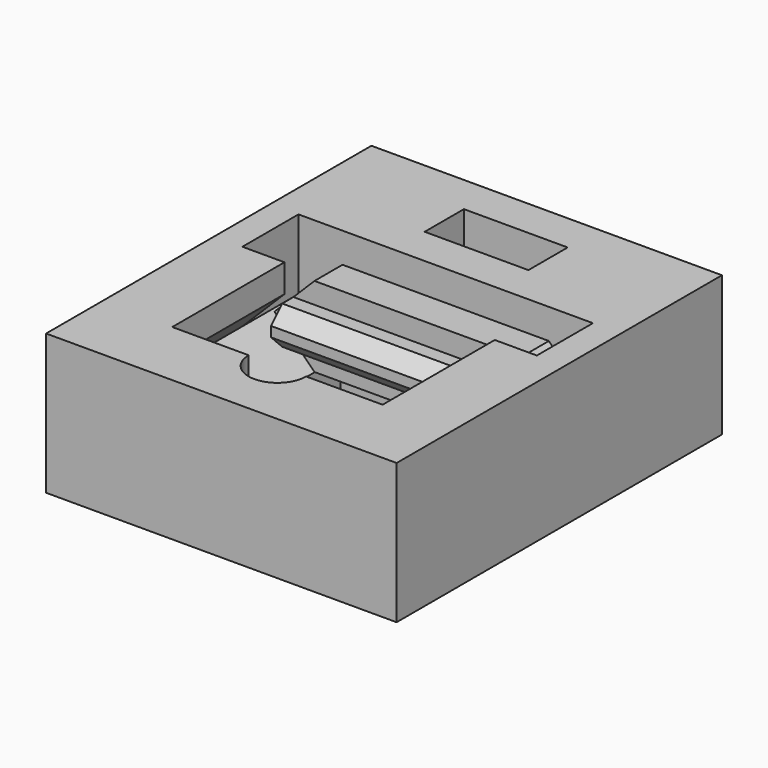
from build123d import *

# Parameters (mm, degrees)
F0_W          = 25
F0_H          = 25
F0_W_2        = 15
F0_H_2        = 15
F0_H_3        = 4
F1_DEPTH      = 10
F2_W          = 3
F2_H          = 5
F3_DEPTH      = 5
F5_DEPTH      = 10
F5_DEPTH_BACK = 5
F6_W          = 18
F6_H          = 3
F7_DEPTH      = 2
F8_SIZE       = 1
F10_DEPTH     = 25
F11_R         = 2
F12_DEPTH     = 9
F13_W         = 7.4
F13_H         = 3.5
F14_DEPTH     = 9
F16_DEPTH     = 2.5
F17_DEPTH     = 4.5
F18_SIZE      = 1
F19_DEPTH     = 0.5


with BuildPart() as f1:
    # F0 (on Top) → F1 (new body)
    with BuildSketch(Plane.XY):
        with Locations((-12.5, 12.5)):
            Rectangle(F0_W, F0_H)
        with Locations((-12.5, 12.5)):
            Rectangle(F0_W_2, F0_H_2, mode=Mode.SUBTRACT)
        with Locations((-12.5, 27)):
            Rectangle(F0_W, F0_H_3)
    extrude(amount=F1_DEPTH)

    # F2 (on face) → F3 (cut)
    with BuildSketch(Plane.XY.offset(10)):
        with Locations((-21.5, 17.5)):
            Rectangle(F2_W, F2_H)
        with Locations((-3.5, 17.5)):
            Rectangle(F2_W, F2_H)
    extrude(amount=-F3_DEPTH, mode=Mode.SUBTRACT)

    # F4 (on face) → F5 (cut, two sides)
    with BuildSketch(Plane(origin=(0, 15, 0), x_dir=(-1, 0, 0), z_dir=(0, 1, 0))) as f5_sk:
        Polygon((20, 2), (23, 5), (20, 5), align=None)
        Polygon((20, 5), (23, 5), (20, 8), align=None)
        Polygon((5, 5), (2, 5), (5, 2), align=None)
        Polygon((5, 8), (2, 5), (5, 5), align=None)
    extrude(amount=-F5_DEPTH, mode=Mode.SUBTRACT)
    extrude(f5_sk.sketch, amount=F5_DEPTH_BACK, mode=Mode.SUBTRACT)

    # F6 (on face) → F7 (cut)
    with BuildSketch(Plane(origin=(0, 5, 0), x_dir=(-1, 0, 0), z_dir=(0, 1, 0))):
        with Locations((12.5, 5)):
            Rectangle(F6_W, F6_H)
        with Locations((12.5, 5)):
            Rectangle(F6_W, F6_H)
    extrude(amount=-F7_DEPTH, mode=Mode.SUBTRACT)

    # F8
    f8_edges = [f1.edges().sort_by_distance(p)[0] for p in [
        (-12.5, 3, 3.5),
        (-12.5, 3, 6.5),
    ]]
    chamfer(f8_edges, length=F8_SIZE)

    # F9 (on face) → F10 (cut)
    with BuildSketch(Plane.XY.offset(10)):
        with BuildLine():
            ThreePointArc((-14.55, 5), (-12.5, 2.95), (-10.45, 5))
            Line((-10.45, 5), (-14.55, 5))
        make_face()
    extrude(amount=-F10_DEPTH, mode=Mode.SUBTRACT)

    # F11 (on face) → F12 (cut, through all)
    with BuildSketch(Plane(origin=(0, 29, 0), x_dir=(-1, 0, 0), z_dir=(0, 1, 0))):
        with Locations((12.5, 5)):
            Circle(F11_R)
    extrude(amount=-F12_DEPTH, mode=Mode.SUBTRACT)

    # F13 (on face) → F14 (cut, through all)
    with BuildSketch(Plane.XY.offset(10)):
        with Locations((-12.5, 24.5)):
            Rectangle(F13_W, F13_H)
    extrude(amount=-F14_DEPTH, mode=Mode.SUBTRACT)


with BuildPart() as f16:
    # F15 (on face) → F16 (new body)
    with BuildSketch(Plane.XZ.offset(-20)):
        with BuildLine():
            Line((-19.8585786438, 7.8585786438), (-21.3585786438, 6.3585786438))
            Line((-21.3585786438, 6.3585786438), (-13.967741145, 6.3585786438))
            ThreePointArc((-13.967741145, 6.3585786438), (-12.5, 7), (-11.032258855, 6.3585786438))
            Line((-11.032258855, 6.3585786438), (-3.6414213562, 6.3585786438))
            Line((-3.6414213562, 6.3585786438), (-5.1414213562, 7.8585786438))
            Line((-5.1414213562, 7.8585786438), (-19.8585786438, 7.8585786438))
        make_face()
        Polygon((-22.7171572875, 5), (-21.3585786438, 3.6414213562), (-21.3585786438, 6.3585786438), align=None)
        with BuildLine():
            Line((-21.3585786438, 6.3585786438), (-21.3585786438, 3.6414213562))
            Line((-21.3585786438, 3.6414213562), (-13.967741145, 3.6414213562))
            ThreePointArc((-13.967741145, 3.6414213562), (-14.5, 5), (-13.967741145, 6.3585786438))
            Line((-13.967741145, 6.3585786438), (-21.3585786438, 6.3585786438))
        make_face()
        with BuildLine():
            Line((-11.032258855, 3.6414213562), (-3.6414213562, 3.6414213562))
            Line((-3.6414213562, 3.6414213562), (-3.6414213562, 6.3585786438))
            Line((-3.6414213562, 6.3585786438), (-11.032258855, 6.3585786438))
            ThreePointArc((-11.032258855, 6.3585786438), (-10.6378128061, 5.7295607274), (-10.5, 5))
            ThreePointArc((-10.5, 5), (-10.6378128061, 4.2704392726), (-11.032258855, 3.6414213562))
        make_face()
        with BuildLine():
            Line((-21.3585786438, 3.6414213562), (-19.8585786438, 2.1414213562))
            Line((-19.8585786438, 2.1414213562), (-5.1414213562, 2.1414213562))
            Line((-5.1414213562, 2.1414213562), (-3.6414213562, 3.6414213562))
            Line((-3.6414213562, 3.6414213562), (-11.032258855, 3.6414213562))
            ThreePointArc((-11.032258855, 3.6414213562), (-12.5, 3), (-13.967741145, 3.6414213562))
            Line((-13.967741145, 3.6414213562), (-21.3585786438, 3.6414213562))
        make_face()
        Polygon((-3.6414213562, 6.3585786438), (-3.6414213562, 3.6414213562), (-2.2828427125, 5), align=None)
        with BuildLine():
            ThreePointArc((-13.967741145, 6.3585786438), (-14.5, 5), (-13.967741145, 3.6414213562))
            Line((-13.967741145, 3.6414213562), (-11.032258855, 3.6414213562))
            ThreePointArc((-11.032258855, 3.6414213562), (-10.6378128061, 4.2704392726), (-10.5, 5))
            ThreePointArc((-10.5, 5), (-10.6378128061, 5.7295607274), (-11.032258855, 6.3585786438))
            Line((-11.032258855, 6.3585786438), (-13.967741145, 6.3585786438))
        make_face()
        with BuildLine():
            Line((-11.032258855, 3.6414213562), (-13.967741145, 3.6414213562))
            ThreePointArc((-13.967741145, 3.6414213562), (-12.5, 3), (-11.032258855, 3.6414213562))
        make_face()
        with BuildLine():
            ThreePointArc((-11.032258855, 6.3585786438), (-12.5, 7), (-13.967741145, 6.3585786438))
            Line((-13.967741145, 6.3585786438), (-11.032258855, 6.3585786438))
        make_face()
    extrude(amount=F16_DEPTH)

    # F15 (on face) → F17 (join, through all)
    with BuildSketch(Plane.XZ.offset(-20)):
        with BuildLine():
            Line((-21.3585786438, 6.3585786438), (-21.3585786438, 3.6414213562))
            Line((-21.3585786438, 3.6414213562), (-13.967741145, 3.6414213562))
            ThreePointArc((-13.967741145, 3.6414213562), (-14.5, 5), (-13.967741145, 6.3585786438))
            Line((-13.967741145, 6.3585786438), (-21.3585786438, 6.3585786438))
        make_face()
        with BuildLine():
            Line((-11.032258855, 3.6414213562), (-3.6414213562, 3.6414213562))
            Line((-3.6414213562, 3.6414213562), (-3.6414213562, 6.3585786438))
            Line((-3.6414213562, 6.3585786438), (-11.032258855, 6.3585786438))
            ThreePointArc((-11.032258855, 6.3585786438), (-10.6378128061, 5.7295607274), (-10.5, 5))
            ThreePointArc((-10.5, 5), (-10.6378128061, 4.2704392726), (-11.032258855, 3.6414213562))
        make_face()
        with BuildLine():
            ThreePointArc((-13.967741145, 6.3585786438), (-14.5, 5), (-13.967741145, 3.6414213562))
            Line((-13.967741145, 3.6414213562), (-11.032258855, 3.6414213562))
            ThreePointArc((-11.032258855, 3.6414213562), (-10.6378128061, 4.2704392726), (-10.5, 5))
            ThreePointArc((-10.5, 5), (-10.6378128061, 5.7295607274), (-11.032258855, 6.3585786438))
            Line((-11.032258855, 6.3585786438), (-13.967741145, 6.3585786438))
        make_face()
    extrude(amount=F17_DEPTH)

    # F18
    f18_edges = [f16.edges().sort_by_distance(p)[0] for p in [
        (-12.5, 15.5, 3.641421),
        (-12.5, 15.5, 6.358579),
    ]]
    chamfer(f18_edges, length=F18_SIZE)

    # F15 (on face) → F19 (cut)
    with BuildSketch(Plane.XZ.offset(-20)):
        with BuildLine():
            ThreePointArc((-13.967741145, 6.3585786438), (-14.5, 5), (-13.967741145, 3.6414213562))
            Line((-13.967741145, 3.6414213562), (-11.032258855, 3.6414213562))
            ThreePointArc((-11.032258855, 3.6414213562), (-10.6378128061, 4.2704392726), (-10.5, 5))
            ThreePointArc((-10.5, 5), (-10.6378128061, 5.7295607274), (-11.032258855, 6.3585786438))
            Line((-11.032258855, 6.3585786438), (-13.967741145, 6.3585786438))
        make_face()
        with BuildLine():
            Line((-11.032258855, 3.6414213562), (-13.967741145, 3.6414213562))
            ThreePointArc((-13.967741145, 3.6414213562), (-12.5, 3), (-11.032258855, 3.6414213562))
        make_face()
        with BuildLine():
            ThreePointArc((-11.032258855, 6.3585786438), (-12.5, 7), (-13.967741145, 6.3585786438))
            Line((-13.967741145, 6.3585786438), (-11.032258855, 6.3585786438))
        make_face()
    extrude(amount=F19_DEPTH, mode=Mode.SUBTRACT)


solid = Compound([f1.part, f16.part])
